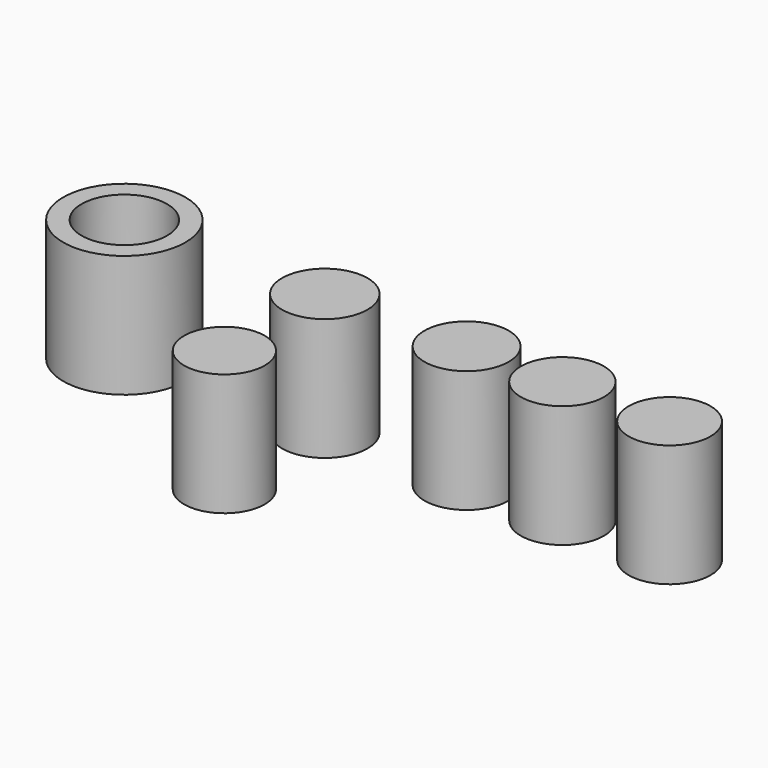
from build123d import *

# Parameters (mm, degrees)
F0_R     = 5
F0_R_2   = 3.5
F0_R_3   = 3.45
F0_R_4   = 3.4
F0_R_5   = 3.35
F0_R_6   = 3.3
F1_DEPTH = 10


with BuildPart() as f1:
    # F0 (on Top) → F1 (new body)
    with BuildSketch(Plane.XY):
        Circle(F0_R)
        Circle(F0_R_2, mode=Mode.SUBTRACT)
        with Locations((16.400298, 0)):
            Circle(F0_R_2)
        with Locations((28.002821, 0)):
            Circle(F0_R_3)
        with Locations((35.841003, 0)):
            Circle(F0_R_4)
        with Locations((44.611964, 0)):
            Circle(F0_R_5)
        with Locations((16.295603, -10.135558)):
            Circle(F0_R_6)
    extrude(amount=F1_DEPTH)


solid = f1.part
